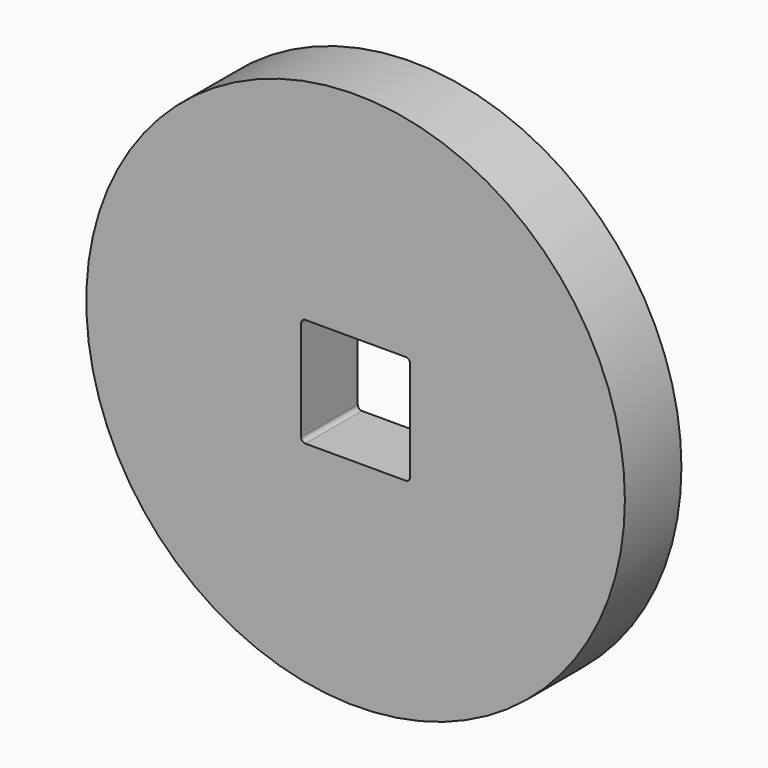
from build123d import *

# Parameters (mm, degrees)
F0_R     = 24.1935
F0_W     = 9.779
F0_H     = 9.779
F1_DEPTH = 6.35
F2_R     = 0.381


with BuildPart() as f1:
    # F0 (on Front) → F1 (new body)
    with BuildSketch(Plane.XZ):
        Circle(F0_R)
        Rectangle(F0_W, F0_H, mode=Mode.SUBTRACT)
    extrude(amount=F1_DEPTH)

    # F2
    f2_edges = [f1.edges().sort_by_distance(p)[0] for p in [
        (4.8895, -3.175, -4.8895),
        (4.8895, -3.175, 4.8895),
        (-4.8895, -3.175, 4.8895),
        (-4.8895, -3.175, -4.8895),
    ]]
    fillet(f2_edges, radius=F2_R)


solid = f1.part
